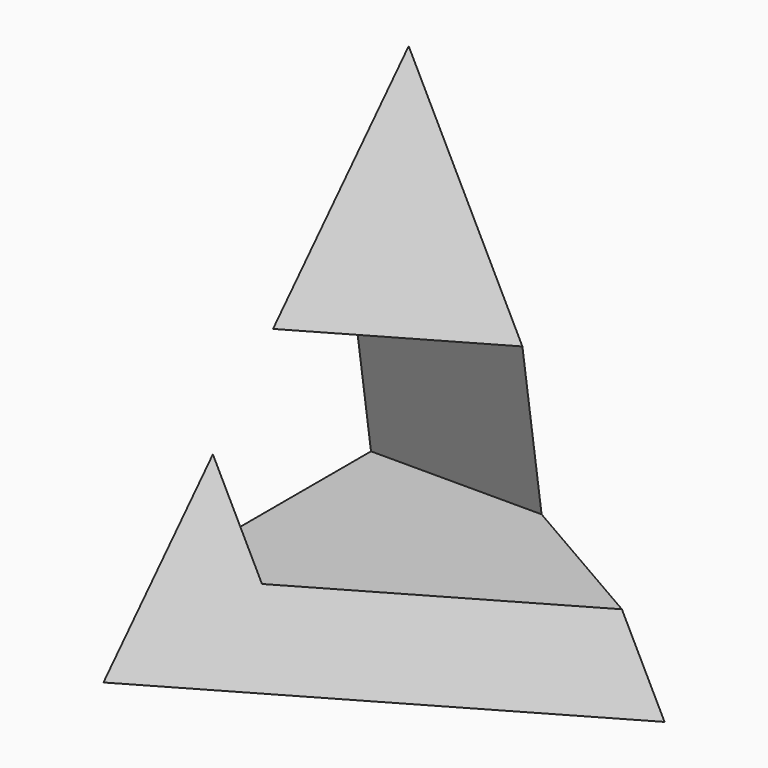
from build123d import *

# Parameters (mm, degrees)
F4_DEPTH      = 22.5010001
F4_DEPTH_BACK = 45.0010001


with BuildPart() as f2:
    # F0 (on Top) → F2 section 0
    with BuildSketch(Plane.XY, mode=Mode.PRIVATE) as f2_s0:
        Polygon((45, 0), (-22.5, 38.9711431703), (-22.5, -38.9711431703), align=None)
    loft([f2_s0.sketch, Vertex(0, 0, 90)])

    # F3 (on Right) → F4 (cut, two sides)
    with BuildSketch(Plane.YZ) as f4_sk:
        Polygon((15.1554445662, 15), (0, 50), (-25, 50), (-25, 15), align=None)
    extrude(amount=-F4_DEPTH, mode=Mode.SUBTRACT)
    extrude(f4_sk.sketch, amount=F4_DEPTH_BACK, mode=Mode.SUBTRACT)


solid = f2.part
